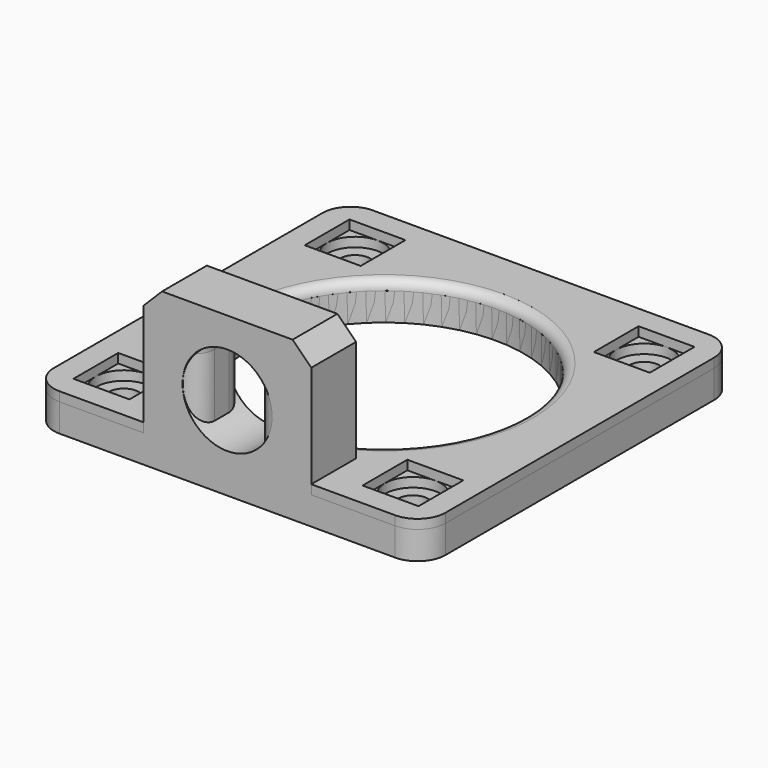
from build123d import *

# Parameters (mm, degrees)
BOX008_W          = 6
BOX008_H          = 6
BOX008_DEPTH      = 14
BOX007_W          = 12
BOX007_H          = 6
BOX007_DEPTH      = 17
FILLET002_R       = 3
FILLET003_R       = 2
CYLINDER013_R     = 15
CYLINDER013_DEPTH = 10
CYLINDER010_R     = 1.6
CYLINDER010_DEPTH = 4
CYLINDER011_R     = 1.6
CYLINDER011_DEPTH = 4
CYLINDER012_R     = 1.6
CYLINDER012_DEPTH = 4
CYLINDER009_R     = 1.6
CYLINDER009_DEPTH = 4
BOX004_W          = 6
BOX004_H          = 6
BOX004_DEPTH      = 2
BOX005_W          = 6
BOX005_H          = 6
BOX005_DEPTH      = 2
BOX001_W          = 6
BOX001_H          = 6
BOX001_DEPTH      = 2
BOX003_W          = 6
BOX003_H          = 6
BOX003_DEPTH      = 2
BOX002_W          = 42
BOX002_H          = 42
BOX002_DEPTH      = 4
FILLET001_R       = 3
FILLET004_R       = 1
CYLINDER008_R     = 15
CYLINDER008_DEPTH = 3
CYLINDER007_R     = 3
CYLINDER007_DEPTH = 1
CYLINDER006_R     = 3
CYLINDER006_DEPTH = 1
CYLINDER005_R     = 3
CYLINDER005_DEPTH = 1
CYLINDER004_R     = 3
CYLINDER004_DEPTH = 1
CYLINDER_R        = 1.6
CYLINDER_DEPTH    = 3
CYLINDER001_R     = 1.6
CYLINDER001_DEPTH = 3
CYLINDER002_R     = 1.6
CYLINDER002_DEPTH = 3
CYLINDER003_R     = 1.6
CYLINDER003_DEPTH = 3
BOX_W             = 42
BOX_H             = 42
BOX_DEPTH         = 3
FILLET_R          = 3
CYLINDER014_R     = 4.8
CYLINDER014_DEPTH = 6
BOX006_W          = 18
BOX006_H          = 6
BOX006_DEPTH      = 17
CHAMFER_SIZE      = 2


with BuildPart() as cube008:
    # Box008 → Box008 (new body)
    with BuildSketch(Plane(origin=(3, 0, 0), x_dir=(1, 0, 0), z_dir=(0, 0, 1))):
        with Locations((3, 3)):
            Rectangle(BOX008_W, BOX008_H)
    extrude(amount=BOX008_DEPTH)


with BuildPart() as fillet003:
    # Box007 → Box007 (new body)
    with BuildSketch(Plane.XY):
        with Locations((6, 3)):
            Rectangle(BOX007_W, BOX007_H)
    extrude(amount=BOX007_DEPTH)

    # Cut007: cut Cube008
    add(cube008.part, mode=Mode.SUBTRACT)


with BuildPart() as fillet003_1:
    # Cut007 placement: moved
    add(fillet003.part.moved(Location((15, 0, 0))))

    # Fillet002
    fillet002_edges = [fillet003_1.edges().sort_by_distance(p)[0] for p in [
        (15, 3, 17),
        (27, 3, 17),
    ]]
    fillet(fillet002_edges, radius=FILLET002_R)

    # Fillet003
    fillet003_edges = [fillet003_1.edges().sort_by_distance(p)[0] for p in [
        (24, 0, 7),
        (21, 0, 14),
        (18, 0, 7),
        (24, 6, 7),
        (21, 6, 14),
        (18, 6, 7),
        (24, 3, 14),
        (18, 3, 14),
    ]]
    fillet(fillet003_edges, radius=FILLET003_R)


with BuildPart() as cylinder013:
    # Cylinder013 → Cylinder013 (new body)
    with BuildSketch(Plane(origin=(21, 21, 0), x_dir=(1, 0, 0), z_dir=(0, 0, 1))):
        Circle(CYLINDER013_R)
    extrude(amount=CYLINDER013_DEPTH)


with BuildPart() as cylinder010:
    # Cylinder010 → Cylinder010 (new body)
    with BuildSketch(Plane(origin=(36.5, 5.5, 0), x_dir=(1, 0, 0), z_dir=(0, 0, 1))):
        Circle(CYLINDER010_R)
    extrude(amount=CYLINDER010_DEPTH)


with BuildPart() as cylinder011:
    # Cylinder011 → Cylinder011 (new body)
    with BuildSketch(Plane(origin=(5.5, 36.5, 0), x_dir=(1, 0, 0), z_dir=(0, 0, 1))):
        Circle(CYLINDER011_R)
    extrude(amount=CYLINDER011_DEPTH)


with BuildPart() as cylinder012:
    # Cylinder012 → Cylinder012 (new body)
    with BuildSketch(Plane(origin=(36.5, 36.5, 0), x_dir=(1, 0, 0), z_dir=(0, 0, 1))):
        Circle(CYLINDER012_R)
    extrude(amount=CYLINDER012_DEPTH)


with BuildPart() as fusion003:
    # Cylinder009 → Cylinder009 (new body)
    with BuildSketch(Plane(origin=(5.5, 5.5, 0), x_dir=(1, 0, 0), z_dir=(0, 0, 1))):
        Circle(CYLINDER009_R)
    extrude(amount=CYLINDER009_DEPTH)

    # Fusion003: union Cylinder010, Cylinder011, Cylinder012
    add(cylinder010.part)
    add(cylinder011.part)
    add(cylinder012.part)


with BuildPart() as cube004:
    # Box004 → Box004 (new body)
    with BuildSketch(Plane(origin=(2.5, 33.5, 1), x_dir=(1, 0, 0), z_dir=(0, 0, 1))):
        with Locations((3, 3)):
            Rectangle(BOX004_W, BOX004_H)
    extrude(amount=BOX004_DEPTH)


with BuildPart() as cube005:
    # Box005 → Box005 (new body)
    with BuildSketch(Plane(origin=(33.5, 33.5, 1), x_dir=(1, 0, 0), z_dir=(0, 0, 1))):
        with Locations((3, 3)):
            Rectangle(BOX005_W, BOX005_H)
    extrude(amount=BOX005_DEPTH)


with BuildPart() as cube001:
    # Box001 → Box001 (new body)
    with BuildSketch(Plane(origin=(2.5, 2.5, 1), x_dir=(1, 0, 0), z_dir=(0, 0, 1))):
        with Locations((3, 3)):
            Rectangle(BOX001_W, BOX001_H)
    extrude(amount=BOX001_DEPTH)


with BuildPart() as fusion002:
    # Box003 → Box003 (new body)
    with BuildSketch(Plane(origin=(33.5, 2.5, 1), x_dir=(1, 0, 0), z_dir=(0, 0, 1))):
        with Locations((3, 3)):
            Rectangle(BOX003_W, BOX003_H)
    extrude(amount=BOX003_DEPTH)

    # Fusion002: union Cube004, Cube005, Cube001
    add(cube004.part)
    add(cube005.part)
    add(cube001.part)


with BuildPart() as fusion002_1:
    # Fusion002 placement: moved
    add(fusion002.part.moved(Location((0, 0, 1))))


with BuildPart() as fillet004:
    # Box002 → Box002 (new body)
    with BuildSketch(Plane.XY):
        with Locations((21, 21)):
            Rectangle(BOX002_W, BOX002_H)
    extrude(amount=BOX002_DEPTH)

    # Cut003: cut Fusion002
    add(fusion002_1.part, mode=Mode.SUBTRACT)

    # Cut004: cut Fusion003
    add(fusion003.part, mode=Mode.SUBTRACT)

    # Fillet001
    fillet001_edges = [fillet004.edges().sort_by_distance(p)[0] for p in [
        (0, 0, 2),
        (0, 42, 2),
        (42, 0, 2),
        (42, 42, 2),
    ]]
    fillet(fillet001_edges, radius=FILLET001_R)

    # Cut005: cut Cylinder013
    add(cylinder013.part, mode=Mode.SUBTRACT)

    # Fusion005: union Fillet003
    add(fillet003_1.part)

    # Fillet004
    fillet004_edges = [fillet004.edges().sort_by_distance(p)[0] for p in [
        (6, 21, 4),
    ]]
    fillet(fillet004_edges, radius=FILLET004_R)


with BuildPart() as cylinder008:
    # Cylinder008 → Cylinder008 (new body)
    with BuildSketch(Plane(origin=(21, 21, 0), x_dir=(1, 0, 0), z_dir=(0, 0, 1))):
        Circle(CYLINDER008_R)
    extrude(amount=CYLINDER008_DEPTH)


with BuildPart() as cylinder007:
    # Cylinder007 → Cylinder007 (new body)
    with BuildSketch(Plane(origin=(5.5, 36.5, 0), x_dir=(1, 0, 0), z_dir=(0, 0, 1))):
        Circle(CYLINDER007_R)
    extrude(amount=CYLINDER007_DEPTH)


with BuildPart() as cylinder006:
    # Cylinder006 → Cylinder006 (new body)
    with BuildSketch(Plane(origin=(36.5, 5.5, 0), x_dir=(1, 0, 0), z_dir=(0, 0, 1))):
        Circle(CYLINDER006_R)
    extrude(amount=CYLINDER006_DEPTH)


with BuildPart() as cylinder005:
    # Cylinder005 → Cylinder005 (new body)
    with BuildSketch(Plane(origin=(5.5, 5.5, 0), x_dir=(1, 0, 0), z_dir=(0, 0, 1))):
        Circle(CYLINDER005_R)
    extrude(amount=CYLINDER005_DEPTH)


with BuildPart() as fusion001:
    # Cylinder004 → Cylinder004 (new body)
    with BuildSketch(Plane(origin=(36.5, 36.5, 0), x_dir=(1, 0, 0), z_dir=(0, 0, 1))):
        Circle(CYLINDER004_R)
    extrude(amount=CYLINDER004_DEPTH)

    # Fusion001: union Cylinder007, Cylinder006, Cylinder005
    add(cylinder007.part)
    add(cylinder006.part)
    add(cylinder005.part)


with BuildPart() as fusion001_1:
    # Fusion001 placement: moved
    add(fusion001.part.moved(Location((0, 0, 2))))


with BuildPart() as cylinder:
    # Cylinder → Cylinder (new body)
    with BuildSketch(Plane(origin=(5.5, 5.5, 0), x_dir=(1, 0, 0), z_dir=(0, 0, 1))):
        Circle(CYLINDER_R)
    extrude(amount=CYLINDER_DEPTH)


with BuildPart() as cylinder001:
    # Cylinder001 → Cylinder001 (new body)
    with BuildSketch(Plane(origin=(36.5, 5.5, 0), x_dir=(1, 0, 0), z_dir=(0, 0, 1))):
        Circle(CYLINDER001_R)
    extrude(amount=CYLINDER001_DEPTH)


with BuildPart() as cylinder002:
    # Cylinder002 → Cylinder002 (new body)
    with BuildSketch(Plane(origin=(5.5, 36.5, 0), x_dir=(1, 0, 0), z_dir=(0, 0, 1))):
        Circle(CYLINDER002_R)
    extrude(amount=CYLINDER002_DEPTH)


with BuildPart() as fusion:
    # Cylinder003 → Cylinder003 (new body)
    with BuildSketch(Plane(origin=(36.5, 36.5, 0), x_dir=(1, 0, 0), z_dir=(0, 0, 1))):
        Circle(CYLINDER003_R)
    extrude(amount=CYLINDER003_DEPTH)

    # Fusion: union Cylinder, Cylinder001, Cylinder002
    add(cylinder.part)
    add(cylinder001.part)
    add(cylinder002.part)


with BuildPart() as cut002:
    # Box → Box (new body)
    with BuildSketch(Plane.XY):
        with Locations((21, 21)):
            Rectangle(BOX_W, BOX_H)
    extrude(amount=BOX_DEPTH)

    # Cut: cut Fusion
    add(fusion.part, mode=Mode.SUBTRACT)

    # Cut001: cut Fusion001
    add(fusion001_1.part, mode=Mode.SUBTRACT)

    # Fillet
    fillet_edges = [cut002.edges().sort_by_distance(p)[0] for p in [
        (0, 0, 1.5),
        (0, 42, 1.5),
        (42, 0, 1.5),
        (42, 42, 1.5),
    ]]
    fillet(fillet_edges, radius=FILLET_R)

    # Cut002: cut Cylinder008
    add(cylinder008.part, mode=Mode.SUBTRACT)


with BuildPart() as cylinder014:
    # Cylinder014 → Cylinder014 (new body)
    with BuildSketch(Plane(origin=(21, 6, 9), x_dir=(1, 0, 0), z_dir=(0, -1, 0))):
        Circle(CYLINDER014_R)
    extrude(amount=CYLINDER014_DEPTH)


with BuildPart() as fusion006:
    # Box006 → Box006 (new body)
    with BuildSketch(Plane(origin=(12, 0, 0), x_dir=(1, 0, 0), z_dir=(0, 0, 1))):
        with Locations((9, 3)):
            Rectangle(BOX006_W, BOX006_H)
    extrude(amount=BOX006_DEPTH)

    # Cut008: cut Cylinder014
    add(cylinder014.part, mode=Mode.SUBTRACT)

    # Chamfer
    chamfer_edges = [fusion006.edges().sort_by_distance(p)[0] for p in [
        (12, 3, 17),
        (30, 3, 17),
    ]]
    chamfer(chamfer_edges, length=CHAMFER_SIZE)

    # Fusion006: union Cut002
    add(cut002.part)


solid = Compound([fillet004.part, fusion006.part])
